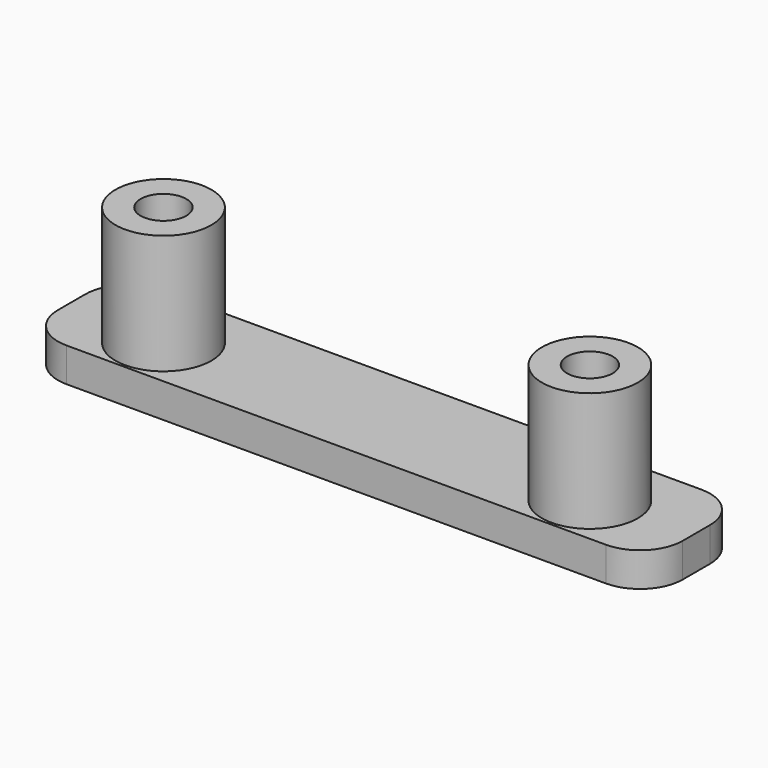
from build123d import *

# Parameters (mm, degrees)
F0_R     = 5.625
F0_R_2   = 2.675
F1_DEPTH = 14
F2_DEPTH = 4


with BuildPart() as f1:
    # F0 (on Top) → F1 (new body)
    with BuildSketch(Plane.XY):
        with Locations((-25, 0)):
            Circle(F0_R)
        with Locations((-25, 0)):
            Circle(F0_R_2, mode=Mode.SUBTRACT)
        with Locations((25, 0)):
            Circle(F0_R)
        with Locations((25, 0)):
            Circle(F0_R_2, mode=Mode.SUBTRACT)
    extrude(amount=F1_DEPTH)

    # F0 (on Top) → F2 (join)
    with BuildSketch(Plane.XY):
        with BuildLine():
            Line((31.625, 8.075), (-31.625, 8.075))
            ThreePointArc((-31.625, 8.075), (-35.160534, 6.610534), (-36.625, 3.075))
            Line((-36.625, 3.075), (-36.625, -0.925))
            ThreePointArc((-36.625, -0.925), (-35.160534, -4.460534), (-31.625, -5.925))
            Line((-31.625, -5.925), (31.625, -5.925))
            ThreePointArc((31.625, -5.925), (35.160534, -4.460534), (36.625, -0.925))
            Line((36.625, -0.925), (36.625, 3.075))
            ThreePointArc((36.625, 3.075), (35.160534, 6.610534), (31.625, 8.075))
        make_face()
        with Locations((-25, 0)):
            Circle(F0_R, mode=Mode.SUBTRACT)
        with Locations((25, 0)):
            Circle(F0_R, mode=Mode.SUBTRACT)
        with Locations((-25, 0)):
            Circle(F0_R)
        with Locations((-25, 0)):
            Circle(F0_R_2, mode=Mode.SUBTRACT)
        with Locations((25, 0)):
            Circle(F0_R)
        with Locations((25, 0)):
            Circle(F0_R_2, mode=Mode.SUBTRACT)
    extrude(amount=-F2_DEPTH)


solid = f1.part
